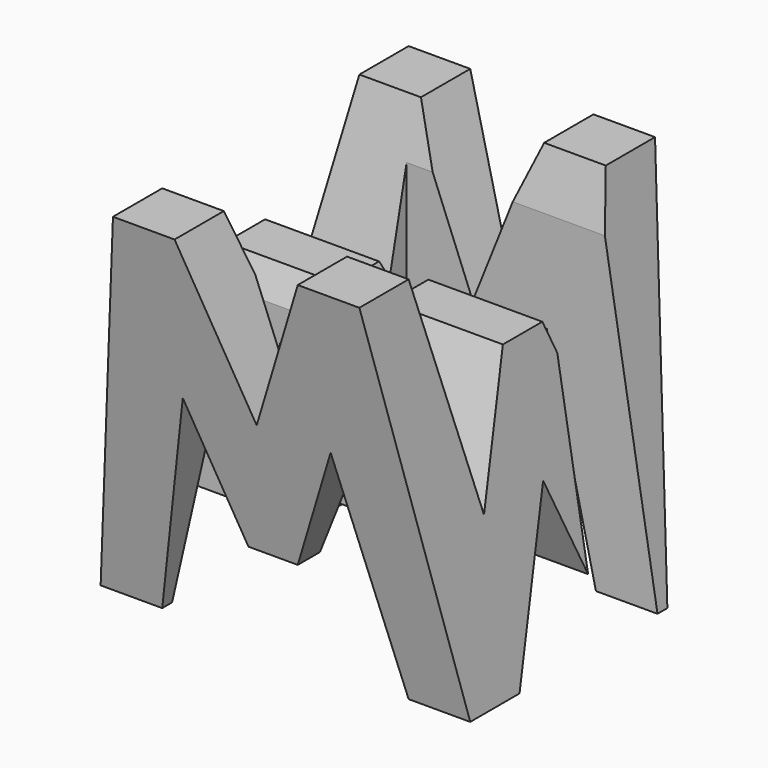
from build123d import *

# Parameters (mm, degrees)
F0_W      = 38.1
F0_H      = 38.1
F1_DEPTH  = 38.1
F5_W      = 38.1
F5_H      = 38.1
F6_DEPTH  = 38.1
F1_FACE_W = 38.1
F1_FACE_H = 38.1
F8_DEPTH  = 38.1
F9_DEPTH  = 38.1
F11_DEPTH = 38.1
F13_W     = 28.973644
F13_H     = 7.62
F13_W_2   = 31.493082
F14_DEPTH = 38.1


with BuildPart() as f1:
    # F0 (on Front) → F1 (new body)
    with BuildSketch(Plane.XZ):
        with Locations((19.05, 19.05)):
            Rectangle(F0_W, F0_H)
    extrude(amount=F1_DEPTH)

    # F5 (on offset) → F6 (join)
    with BuildSketch(Plane.YZ.offset(38.1)):
        with Locations((-19.05, 19.05)):
            Rectangle(F5_W, F5_H)
    extrude(amount=F6_DEPTH)

    # F1_face (on face) → F8 (cut)
    with BuildSketch(Plane(origin=(0, -19.05, 19.05), x_dir=(0, -1, 0), z_dir=(-1, 0, 0))):
        Rectangle(F1_FACE_W, F1_FACE_H)
    extrude(amount=-F8_DEPTH, mode=Mode.SUBTRACT)

    # F7 (on face) → F9 (cut)
    with BuildSketch(Plane.YZ.offset(76.2)):
        Polygon((-6.35, 38.1), (-31.75, 38.1), (-26.67, 15.875), (-21.59, 28.575), (-16.51, 28.575), (-11.43, 15.875), align=None)
        Polygon((-19.05, 15.875), (-25.4, 0), (-12.7, 0), align=None)
        Polygon((0, 0), (0, 38.1), (-6.35, 0), align=None)
        Polygon((-31.75, 0), (-38.1, 38.1), (-38.1, 0), align=None)
    extrude(amount=-F9_DEPTH, mode=Mode.SUBTRACT)

    # F10 (on offset) → F11 (cut)
    with BuildSketch(Plane.XZ.offset(38.1)):
        Polygon((63.5, 38.1), (50.8, 38.1), (57.15, 22.225), align=None)
        Polygon((49.53, 22.225), (44.45, 0), (69.85, 0), (64.77, 22.225), (59.69, 9.525), (54.61, 9.525), align=None)
        Polygon((69.85, 38.1), (76.2, 0), (76.2, 38.1), align=None)
        Polygon((38.1, 38.1), (38.1, 0), (44.45, 38.1), align=None)
    extrude(amount=-F11_DEPTH, mode=Mode.SUBTRACT)

    # F13 (on face) → F14 (cut)
    with BuildSketch(Plane.XY.offset(38.1)):
        with Locations((64.823925, -11.43)):
            Rectangle(F13_W, F13_H)
        with Locations((47.290562, -26.67)):
            Rectangle(F13_W_2, F13_H)
    extrude(amount=-F14_DEPTH, mode=Mode.SUBTRACT)


solid = f1.part
